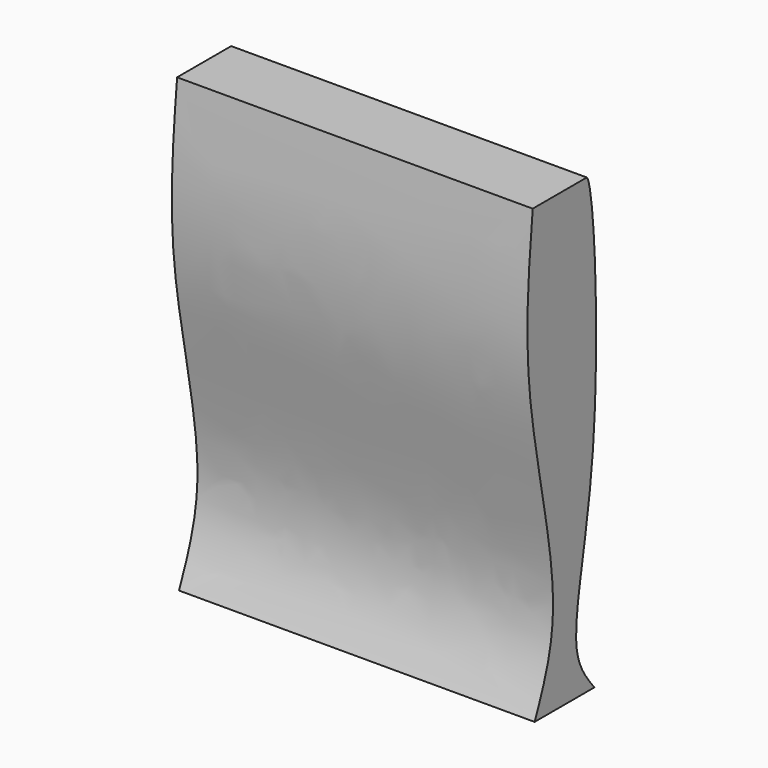
from build123d import *

# Parameters (mm, degrees)
F0_W     = 119.6851581335
F0_H     = 46.7431806028
F1_DEPTH = 152.4
F3_DEPTH = 152.4
F5_DEPTH = 127


with BuildPart() as f1:
    # F0 (on Top) → F1 (new body)
    with BuildSketch(Plane.XY):
        Rectangle(F0_W, F0_H)
    extrude(amount=F1_DEPTH)

    # F2 (on face) → F3 (cut)
    with BuildSketch(Plane(origin=(-59.8425790668, 0, 0), x_dir=(0, -1, 0), z_dir=(-1, 0, 0))):
        with BuildLine():
            Line((-23.3715903014, 0), (-11.4030716941, 0))
            add(Edge.make_bspline(
                [(-11.4030716941, 0), (-8.2195056197, 3.9575459118), (1.0774152211, 15.5147086053), (-15.7760282892, 65.5599234309), (-11.3382883726, 149.0952490281), (-8.1989020109, 152.4)],
                knots=[0, 0, 0, 0, 0.1828483227, 0.5339692479, 0.9508432341, 0.9508432341, 0.9508432341, 0.9508432341], degree=3))
            Line((-8.1989020109, 152.4), (-23.3715903014, 152.4))
            Line((-23.3715903014, 152.4), (-23.3715903014, 0))
        make_face()
    extrude(amount=-F3_DEPTH, mode=Mode.SUBTRACT)

    # F4 (on face) → F5 (cut)
    with BuildSketch(Plane(origin=(-59.8425790668, 0, 0), x_dir=(0, -1, 0), z_dir=(-1, 0, 0))):
        with BuildLine():
            add(Edge.make_bspline(
                [(13.7510914356, 0), (9.9562259511, 9.073109189), (0.6466963295, 31.3311784411), (19.8352582333, 97.9170297401), (16.25745163, 134.8114001188), (14.5518090576, 152.4)],
                knots=[0, 0, 0, 0, 0.2647515324, 0.6494860604, 1, 1, 1, 1], degree=3))
            Line((13.7510914356, 0), (23.3715903014, 0))
            Line((23.3715903014, 0), (23.3715903014, 152.4))
            Line((23.3715903014, 152.4), (14.5518090576, 152.4))
        make_face()
    extrude(amount=-F5_DEPTH, mode=Mode.SUBTRACT)


solid = f1.part
